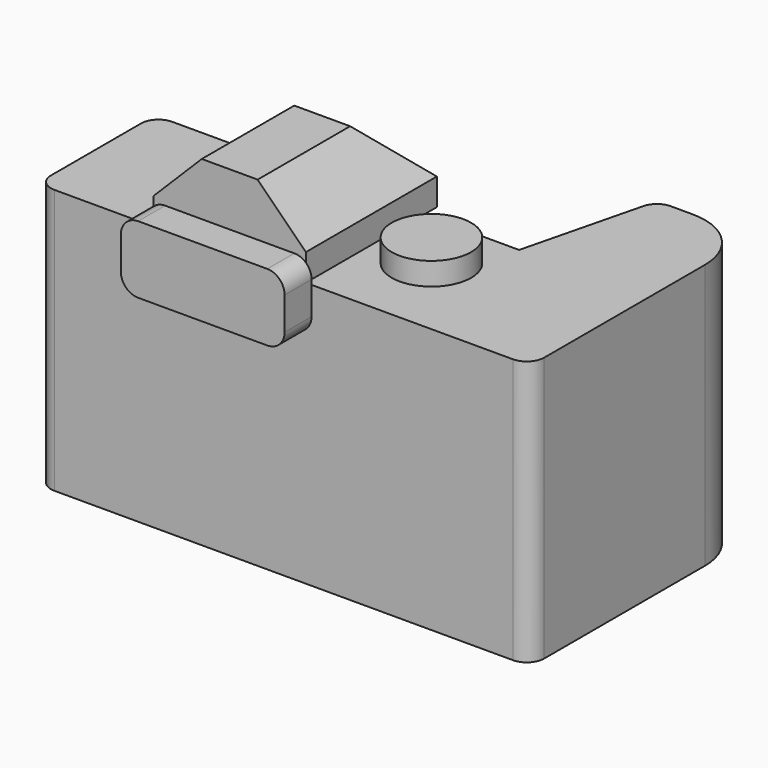
from build123d import *

# Parameters (mm, degrees)
F0_R      = 2.54
F1_DEPTH  = 69.85
F2_W      = 40.132
F2_H      = 38.862
F2_R      = 2.54
F2_H_2    = 4.318
F3_DEPTH  = 19.812
F4_SIZE   = 12.7
F6_DEPTH  = 8.89
F7_R      = 10.4775
F8_DEPTH  = 5.969
F9_R      = 12.7
F10_DEPTH = 2.54


with BuildPart() as f1:
    # F0 (on Top) → F1 (new body)
    with BuildSketch(Plane.XY):
        with BuildLine():
            Line((96.012, 38.862), (130.048, 38.862))
            Line((130.048, 38.862), (130.048, 57.5797104578))
            ThreePointArc((130.048, 57.5797104578), (125.3611227125, 68.8948331703), (114.046, 73.5817104578))
            Line((114.046, 73.5817104578), (108.2220946444, 73.5817104578))
            ThreePointArc((108.2220946444, 73.5817104578), (105.4062842868, 72.6117093515), (103.7852854611, 70.1132992724))
            Line((103.7852854611, 70.1132992724), (96.012, 38.862))
        make_face()
        with BuildLine():
            ThreePointArc((0, 4.572), (1.3391077964, 1.3391077964), (4.572, 0))
            Line((4.572, 0), (125.476, 0))
            ThreePointArc((125.476, 0), (128.7088922036, 1.3391077964), (130.048, 4.572))
            Line((130.048, 4.572), (130.048, 38.862))
            Line((130.048, 38.862), (96.012, 38.862))
            Line((96.012, 38.862), (4.572, 38.862))
            ThreePointArc((4.572, 38.862), (1.3391077964, 37.5228922036), (0, 34.29))
            Line((0, 34.29), (0, 4.572))
        make_face()
        with Locations((39.878, 14.478)):
            Circle(F0_R, mode=Mode.SUBTRACT)
    extrude(amount=F1_DEPTH)

    # F2 (on face) → F3 (join)
    with BuildSketch(Plane.XY.offset(69.85)):
        with Locations((50.8, 19.431)):
            Rectangle(F2_W, F2_H)
        with Locations((39.878, 14.478)):
            Circle(F2_R, mode=Mode.SUBTRACT)
        with Locations((50.8, 41.021)):
            Rectangle(F2_W, F2_H_2)
        with Locations((39.878, 14.478)):
            Circle(F2_R)
    extrude(amount=F3_DEPTH)

    # F4
    f4_edges = [f1.edges().sort_by_distance(p)[0] for p in [
        (70.866, 21.59, 89.662),
        (50.8, 43.18, 89.662),
        (30.734, 21.59, 89.662),
    ]]
    chamfer(f4_edges, length=F4_SIZE)

    # F5 (on Front) + F1_face1 (on face) → F6 (join)
    with BuildSketch(Plane.XZ):
        with BuildLine():
            ThreePointArc((29.21, 62.484), (30.5491077964, 59.2511077964), (33.782, 57.912))
            Line((33.782, 57.912), (67.818, 57.912))
            ThreePointArc((67.818, 57.912), (71.0508922036, 59.2511077964), (72.39, 62.484))
            Line((72.39, 62.484), (72.39, 71.12))
            ThreePointArc((72.39, 71.12), (71.0508922036, 74.3528922036), (67.818, 75.692))
            Line((67.818, 75.692), (33.782, 75.692))
            ThreePointArc((33.782, 75.692), (30.5491077964, 74.3528922036), (29.21, 71.12))
            Line((29.21, 71.12), (29.21, 62.484))
        make_face()
    with BuildSketch(Plane(origin=(50.292, 38.862, 34.925), x_dir=(-1, 0, 0), z_dir=(0, 1, 0))):
        Polygon((-45.72, 34.925), (-45.72, -34.925), (45.72, -34.925), (45.72, 34.925), (19.558, 34.925), (-20.574, 34.925), align=None)
    extrude(amount=F6_DEPTH, dir=(0, -1, 0))

    # F7 (on face) → F8 (join)
    with BuildSketch(Plane.XY.offset(69.85)):
        with Locations((85.598, 22.987)):
            Circle(F7_R)
    extrude(amount=F8_DEPTH)

    # F9 (on face) → F10 (cut)
    with BuildSketch(Plane(origin=(0, 38.862, 0), x_dir=(-1, 0, 0), z_dir=(0, 1, 0))):
        with Locations((-50.8, 34.925)):
            Circle(F9_R)
    extrude(amount=-F10_DEPTH, mode=Mode.SUBTRACT)


solid = f1.part
